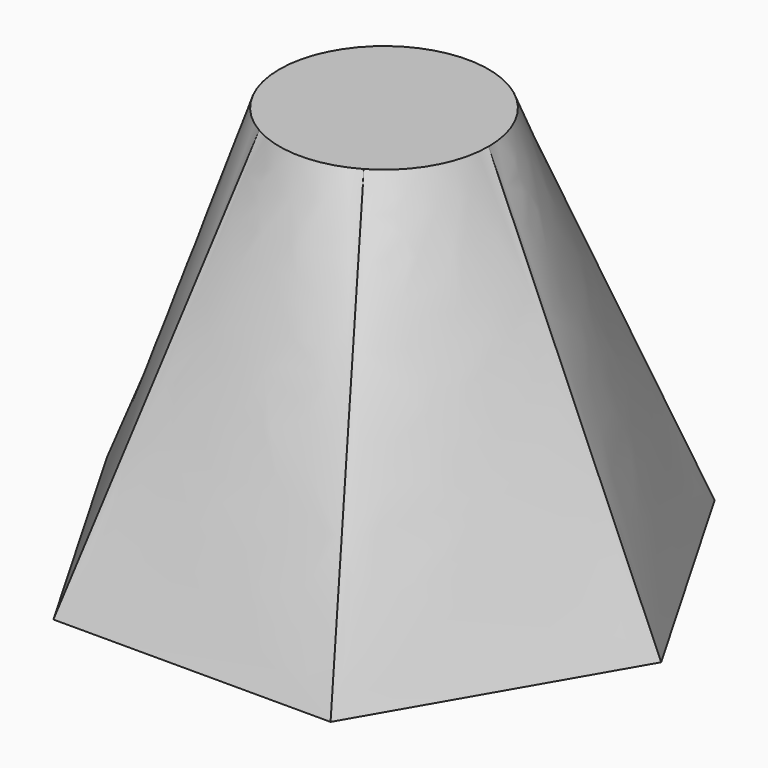
from build123d import *

# Parameters (mm, degrees)
F2_R = 13.140727


with BuildPart() as f3:
    # F0 (on Top) → F3 section 0
    with BuildSketch(Plane.XY):
        Polygon((-17.413452, -30.160984), (17.413452, -30.160984), (34.826904, 0), (17.413452, 30.160984), (-17.413452, 30.160984), (-34.826904, 0), align=None)
    # F2 (on offset) → F3 section 1
    with BuildSketch(Plane.XY.offset(50)):
        Circle(F2_R)
    loft()


solid = f3.part
